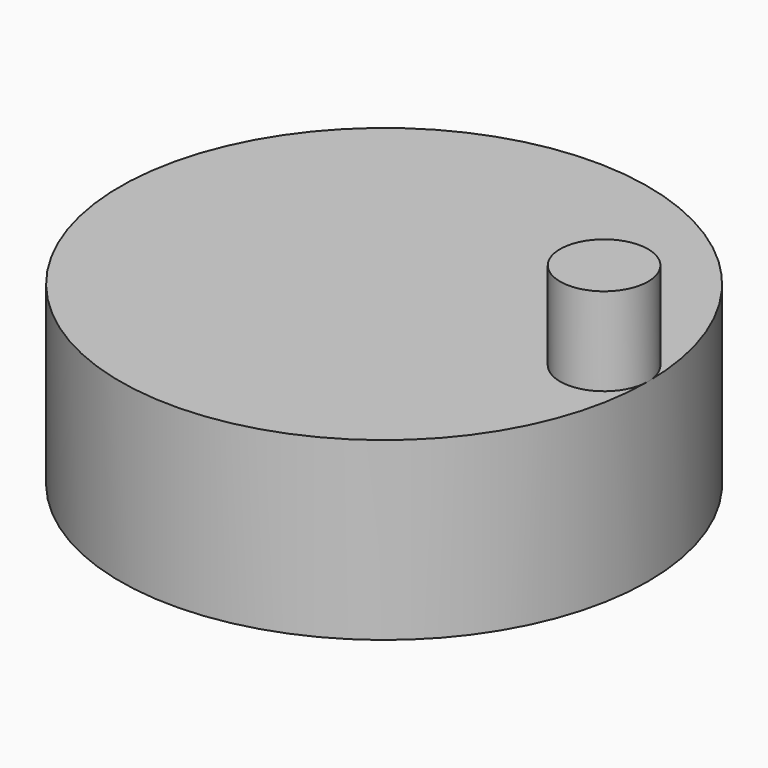
from build123d import *

# Parameters (mm, degrees)
F0_R     = 15
F1_DEPTH = 10
F2_R     = 2.5
F3_DEPTH = 5


with BuildPart() as f1:
    # F0 (on Top) → F1 (new body)
    with BuildSketch(Plane.XY):
        Circle(F0_R)
    extrude(amount=F1_DEPTH)

    # F2 (on face) → F3 (join)
    with BuildSketch(Plane.XY.offset(10)):
        with Locations((12.5, 0)):
            Circle(F2_R)
    extrude(amount=F3_DEPTH)


solid = f1.part
